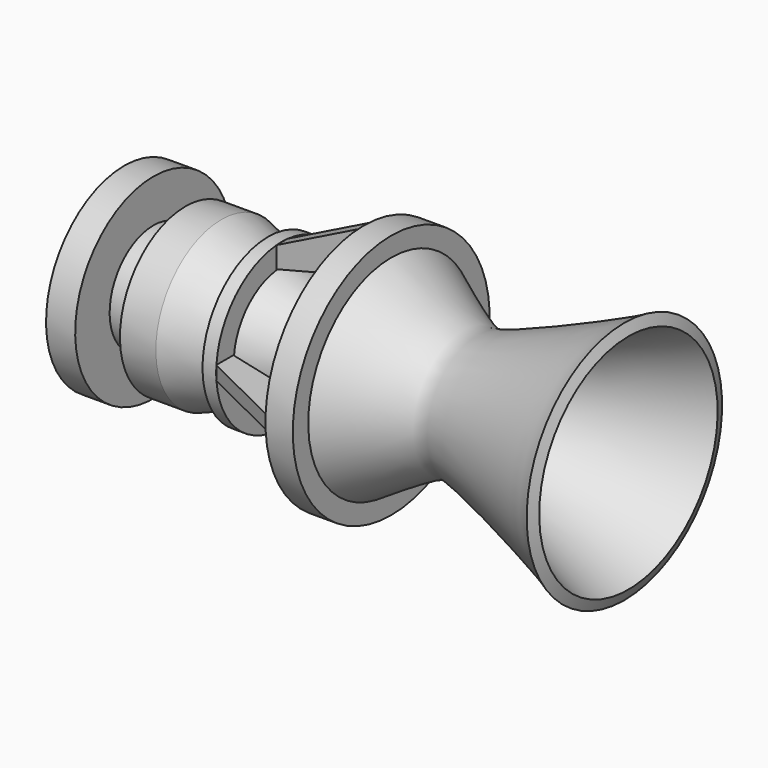
from build123d import *

# Parameters (mm, degrees)
F3_DEPTH = 1.5875
F4_COUNT = 4
F5_R     = 9.525
F5_R_2   = 6.35
F6_DEPTH = 22.225


with BuildPart() as f1:
    # F0 (on Front) → F1 (revolve)
    with BuildSketch(Plane.XZ):
        with BuildLine():
            Line((-6.35, 21.5449612588), (0, 21.5449612588))
            add(Edge.make_bspline(
                [(0, 21.5449612588), (5.7091140074, 17.8062328478), (14.9433568334, 11.7590027587), (22.6094264222, 12.0531771122), (41.7193795404, 20.2005543654), (55.0581365824, 25.8874278516)],
                knots=[0, 0, 0, 0, 0.3284545806, 0.5312609541, 1, 1, 1, 1], degree=3))
            Line((55.0581365824, 25.8874278516), (54.1192181408, 28.3520705998))
            add(Edge.make_bspline(
                [(0, 24.0849612588), (5.828247379, 20.394150502), (15.2551832359, 14.4244251281), (21.3280668754, 14.1649541634), (50.7778755781, 26.425568968), (53.4362491864, 27.9582945111), (54.1192181408, 28.3520705998)],
                knots=[0, 0, 0, 0, 0.2932614007, 0.474337521, 0.8649508284, 1, 1, 1, 1], degree=3))
            Line((0, 24.0849612588), (0, 28.575))
            Line((0, 28.575), (-6.35, 28.575))
            Line((-6.35, 28.575), (-6.35, 21.5449612588))
        make_face()
    revolve(axis=Axis((-21.6108541936, 0, 0), (-1, 0, 0)))



with BuildPart() as f1b:
    # F0 (on Front) → F1, piece 2 (revolve)
    with BuildSketch(Plane.XZ):
        with BuildLine():
            Line((-25.4, 13.961916452), (-25.4, 19.05))
            Line((-25.4, 19.05), (-28.575, 19.05))
            Line((-28.575, 19.05), (-28.575, 15.1060059758))
            Line((-28.575, 15.1060059758), (-39.4406318665, 19.0213620663))
            Line((-39.4406318665, 19.0213620663), (-47.7628409863, 19.0213620663))
            Line((-47.7628409863, 19.0213620663), (-47.7628409863, 12.7))
            Line((-47.7628409863, 12.7), (-55.2181527019, 12.7))
            Line((-55.2181527019, 12.7), (-55.2181527019, 22.7018314168))
            Line((-55.2181527019, 22.7018314168), (-61.9799494743, 22.7018314168))
            Line((-61.9799494743, 22.7018314168), (-61.9799494743, 12.7))
            Line((-61.9799494743, 12.7), (-61.9799494743, 9.525))
            Line((-61.9799494743, 9.525), (-39.4406318665, 9.525))
            add(Edge.make_bspline(
                [(-39.4406318665, 9.525), (-35.4392920306, 9.9052529375), (-26.9580608884, 10.71123623), (-17.8813827929, 6.392138264), (-13.0869690329, 4.1107372381)],
                knots=[0, 0, 0, 0, 0.4717876177, 1, 1, 1, 1], degree=3))
            Line((-13.0869690329, 4.1107372381), (-13.0869690329, 9.525))
            Line((-13.0869690329, 9.525), (-25.4, 13.961916452))
        make_face()
    revolve(axis=Axis((-21.6108541936, 0, 0), (-1, 0, 0)))


with BuildPart() as f1_1:
    add(f1.part)

    add(f1b.part)  # F3 merges F1b
    # F2 (on Front) → F3 (join, symmetric)
    with BuildSketch(Plane.XZ):
        Polygon((-6.2443618663, 28.5232551396), (-25.5005825311, 18.9564712346), (-25.5005825311, 14.0504268929), (-6.3670128584, 18.9564712346), align=None)
    extrude(amount=F3_DEPTH, both=True)

    # F4: F1 ×4 about axis
    f4_axis = Axis((-21.6108541936, 0, 0), (-1, 0, 0))


with BuildPart() as f1_2:
    add(f1_1.part)
    for i in range(1, F4_COUNT):
        add(f1_1.part.rotate(f4_axis, i * 360 / F4_COUNT))

    # F5 (on face) → F6 (join)
    with BuildSketch(Plane(origin=(-61.9799494743, 0, 0), x_dir=(0, -1, 0), z_dir=(-1, 0, 0))):
        Circle(F5_R)
        Circle(F5_R_2, mode=Mode.SUBTRACT)
    extrude(amount=-F6_DEPTH)


solid = f1_2.part
